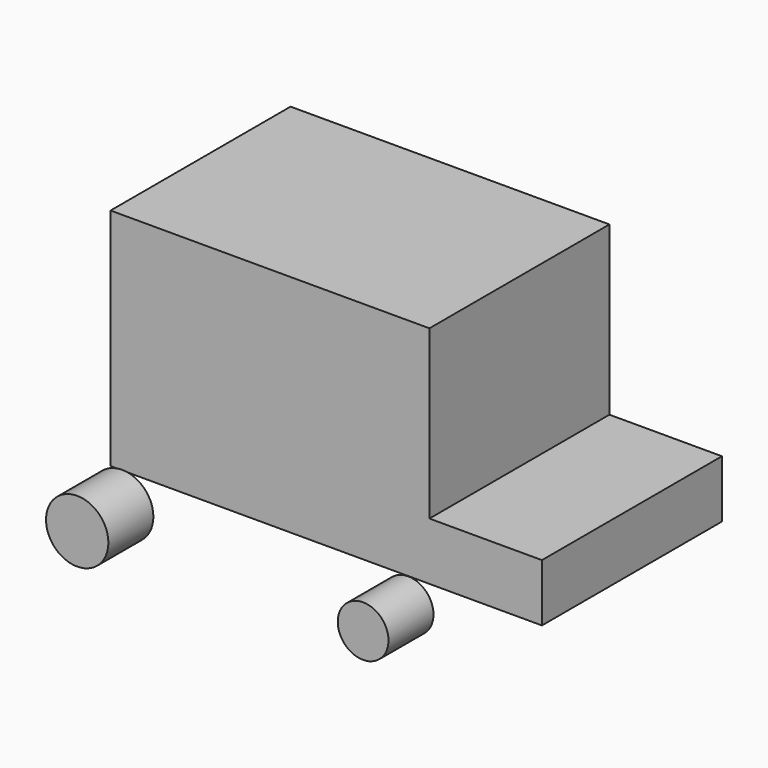
from build123d import *

# Parameters (mm, degrees)
F1_DEPTH = 101.6
F2_W     = 37.540236
F2_H     = 32.421116
F2_W_2   = 44.555331
F2_H_2   = 31.852323
F2_W_3   = 33.748291
F2_H_3   = 32.800309
F3_DEPTH = 2.54
F4_R     = 14.07623
F4_R_2   = 11.452987
F5_DEPTH = 25.4
F6_R     = 13.375894
F6_R_2   = 11.642566
F7_DEPTH = 25.4


with BuildPart() as f1:
    # F0 (on Front) → F1 (new body)
    with BuildSketch(Plane.XZ):
        Polygon((52.943984, -38.488224), (52.943984, 37.149004), (-91.053015, 37.149004), (-91.053015, -64.450996), (52.943984, -64.450996), align=None)
        Polygon((103.743984, -38.488224), (52.943984, -38.488224), (52.943984, -64.450996), (52.943984, -64.463034), (103.743984, -64.463034), align=None)
    extrude(amount=F1_DEPTH)

    # F2 (on Front) → F3 (join)
    with BuildSketch(Plane.XZ):
        with Locations((32.320294, -21.519279)):
            Rectangle(F2_W, F2_H)
        with Locations((-8.917086, -21.614076)):
            Rectangle(F2_W_2, F2_H_2)
        with Locations((-52.050438, -22.088069)):
            Rectangle(F2_W_3, F2_H_3)
    extrude(amount=F3_DEPTH)

    # F4 (on face) → F5 (join)
    with BuildSketch(Plane.XZ.offset(101.6)):
        with Locations((-85.798733, -78.303628)):
            Circle(F4_R)
        with Locations((43.316927, -76.028459)):
            Circle(F4_R_2)
    extrude(amount=F5_DEPTH)


with BuildPart() as f7:
    # F6 (on face) → F7 (new body)
    with BuildSketch(Plane(origin=(0, 0, 0), x_dir=(-1, 0, 0), z_dir=(0, 1, 0))):
        with Locations((87.339111, -78.375705)):
            Circle(F6_R)
        with Locations((-44.476453, -76.119691)):
            Circle(F6_R_2)
    extrude(amount=-F7_DEPTH)


solid = Compound([f1.part, f7.part])
